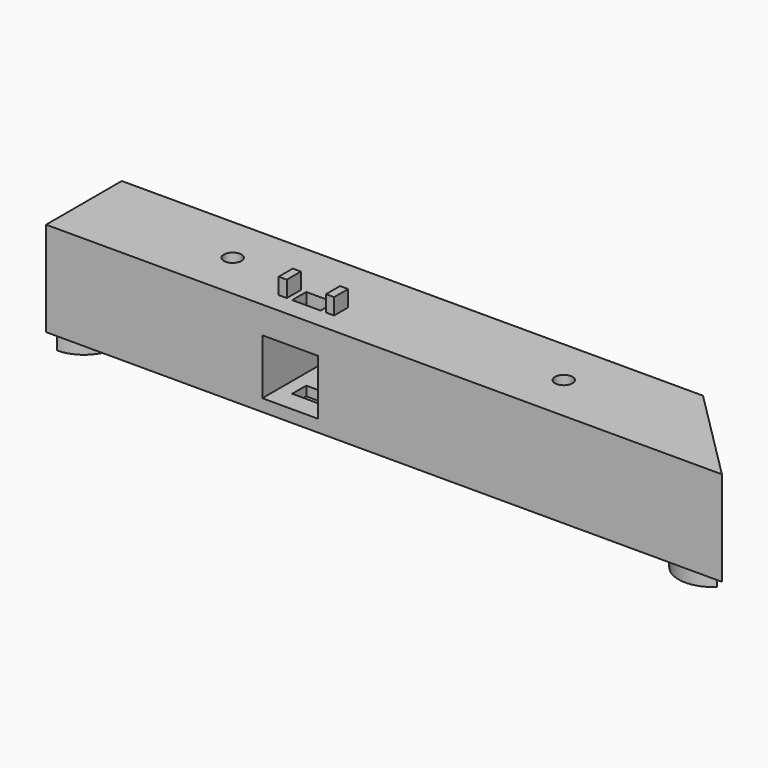
from build123d import *

# Parameters (mm, degrees)
F1_DEPTH  = 35
F2_W      = 24
F2_H      = 24
F3_DEPTH  = 25.5
F5_D      = 6.5
F5_DEPTH  = 35
F5_TIP    = 1.9527970118
F7_DEPTH  = 8
F9_DEPTH  = 8
F10_W     = 20.5
F10_H     = 20.5
F11_DEPTH = 100
F12_W     = 10.5
F12_H     = 6.5
F13_DEPTH = 34
F12_W_2   = 3
F14_DEPTH = 6


with BuildPart() as f1:
    # F0 (on Top) → F1 (new body)
    with BuildSketch(Plane.XY):
        Polygon((-125, -17.5), (125, -17.5), (90, 17.5), (-125, 17.5), align=None)
    extrude(amount=F1_DEPTH)

    # F2 (on face) → F3 (cut)
    with BuildSketch(Plane(origin=(-125, 0, 0), x_dir=(0, -1, 0), z_dir=(-1, 0, 0))):
        with Locations((0, 17.5)):
            Rectangle(F2_W, F2_H)
    extrude(amount=-F3_DEPTH, mode=Mode.SUBTRACT)

    # F5
    with Locations(Plane.XY.offset(35)):
        with Locations((52.5, 0), (-70, 0)):
            Hole(F5_D / 2, depth=F5_DEPTH)
            with Locations((0, 0, -(F5_DEPTH + F5_TIP / 2))):  # 118° drill point
                Cone(0, F5_D / 2, F5_TIP, mode=Mode.SUBTRACT)

    # F6 (on face) → F7 (join)
    with BuildSketch(Plane(origin=(0, 0, 0), x_dir=(1, 0, 0), z_dir=(0, 0, -1))):
        with BuildLine():
            Line((98.6611652352, -8.8388347648), (116.3388347648, 8.8388347648))
            ThreePointArc((116.3388347648, 8.8388347648), (98.6611652352, 8.8388347648), (98.6611652352, -8.8388347648))
        make_face()
    extrude(amount=F7_DEPTH)

    # F8 (on face) → F9 (join)
    with BuildSketch(Plane(origin=(0, 0, 0), x_dir=(1, 0, 0), z_dir=(0, 0, -1))):
        with BuildLine():
            ThreePointArc((-125, -12.5), (-116.1611652352, -8.8388347648), (-112.5, 0))
            ThreePointArc((-112.5, 0), (-116.1611652352, 8.8388347648), (-125, 12.5))
            Line((-125, 12.5), (-125, -12.5))
        make_face()
    extrude(amount=F9_DEPTH)

    # F10 (on face) → F11 (cut)
    with BuildSketch(Plane(origin=(0, 17.5, 0), x_dir=(-1, 0, 0), z_dir=(0, 1, 0))):
        with Locations((34.75, 14.75)):
            Rectangle(F10_W, F10_H)
    extrude(amount=-F11_DEPTH, mode=Mode.SUBTRACT)

    # F12 (on face) → F13 (cut)
    with BuildSketch(Plane.XY.offset(35)):
        with Locations((-34.768, -6.678)):
            Rectangle(F12_W, F12_H)
    extrude(amount=-F13_DEPTH, mode=Mode.SUBTRACT)

    # F12 (on face) → F14 (join)
    with BuildSketch(Plane.XY.offset(35)):
        with Locations((-26.018, -6.678)):
            Rectangle(F12_W_2, F12_H)
        with Locations((-43.518, -6.678)):
            Rectangle(F12_W_2, F12_H)
    extrude(amount=F14_DEPTH)


solid = f1.part
